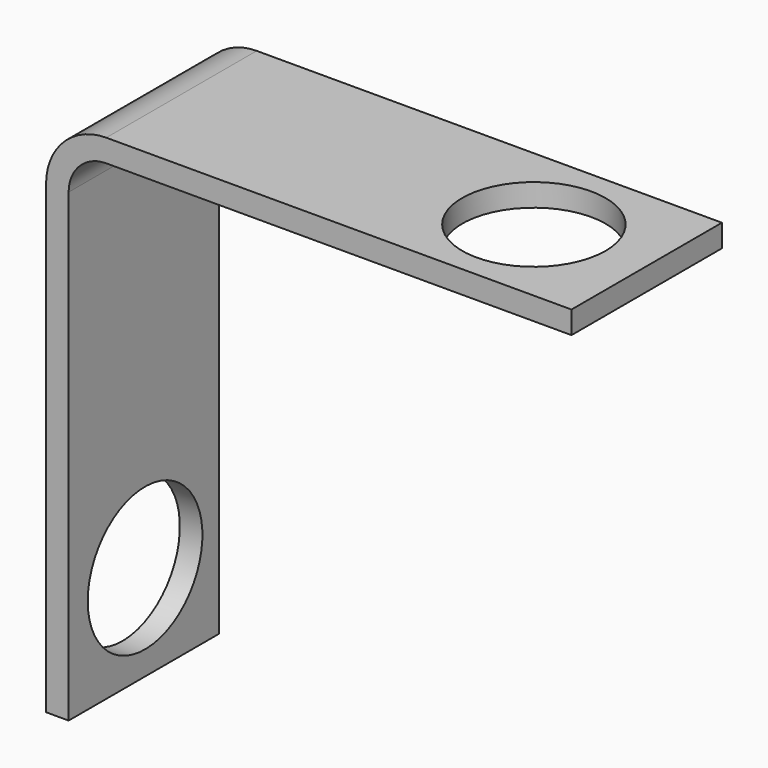
from build123d import *

# Parameters (mm, degrees)
F1_DEPTH = 50
F2_R     = 19.05
F3_DEPTH = 25
F4_R     = 19.05
F5_DEPTH = 25


with BuildPart() as f1:
    # F0 (on Front) → F1 (new body)
    with BuildSketch(Plane.XZ):
        with BuildLine():
            Line((-53.070944, 22.410468), (-53.070944, -101.289532))
            Line((-53.070944, -101.289532), (-47.070944, -101.289532))
            Line((-47.070944, -101.289532), (-47.070944, 22.410468))
            ThreePointArc((-47.070944, 22.410468), (-44.142012, 29.481535), (-37.070944, 32.410468))
            Line((-37.070944, 32.410468), (86.629056, 32.410468))
            Line((86.629056, 32.410468), (86.629056, 38.410468))
            Line((86.629056, 38.410468), (-37.070944, 38.410468))
            ThreePointArc((-37.070944, 38.410468), (-48.384652, 33.724176), (-53.070944, 22.410468))
        make_face()
    extrude(amount=F1_DEPTH)

    # F2 (on face) → F3 (cut)
    with BuildSketch(Plane.XY.offset(38.410468)):
        with Locations((56.629056, -25)):
            Circle(F2_R)
    extrude(amount=-F3_DEPTH, mode=Mode.SUBTRACT)

    # F4 (on face) → F5 (cut)
    with BuildSketch(Plane(origin=(-53.070944, 0, 0), x_dir=(0, -1, 0), z_dir=(-1, 0, 0))):
        with Locations((24.6, -75.889532)):
            Circle(F4_R)
    extrude(amount=-F5_DEPTH, mode=Mode.SUBTRACT)


solid = f1.part
